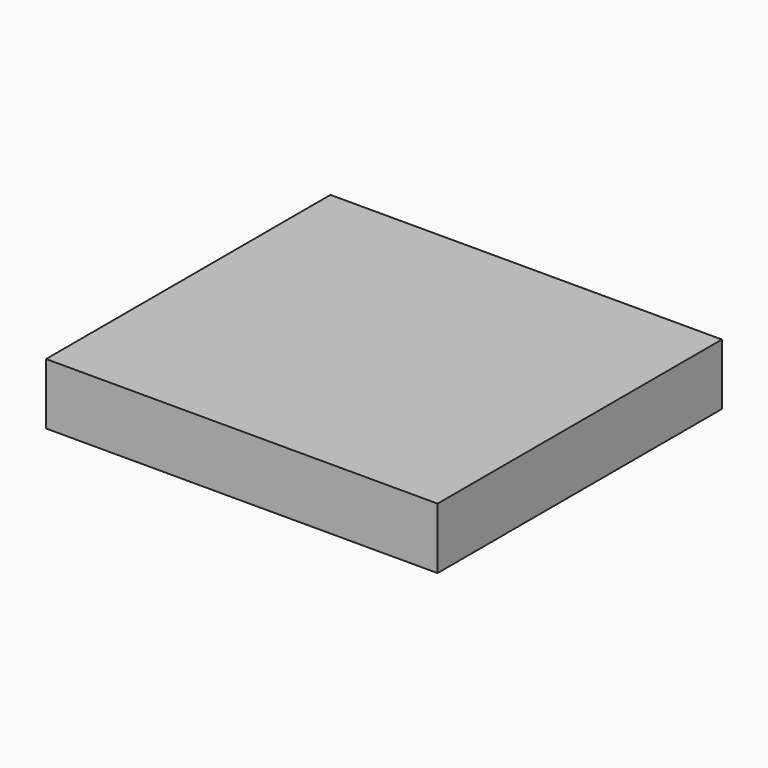
from build123d import *

# Parameters (mm, degrees)
F0_W     = 162.49907
F0_H     = 147.545188
F1_DEPTH = 25.4
F2_R     = 30.639287
F3_DEPTH = 4.002098


with BuildPart() as f1:
    # F0 (on Top) → F1 (new body)
    with BuildSketch(Plane.XY):
        Rectangle(F0_W, F0_H)
    extrude(amount=F1_DEPTH)

    # F2 (on face) → F3 (join)
    with BuildSketch(Plane(origin=(0, 0, 0), x_dir=(1, 0, 0), z_dir=(0, 0, -1))):
        Circle(F2_R)
    extrude(amount=-F3_DEPTH)


solid = f1.part
